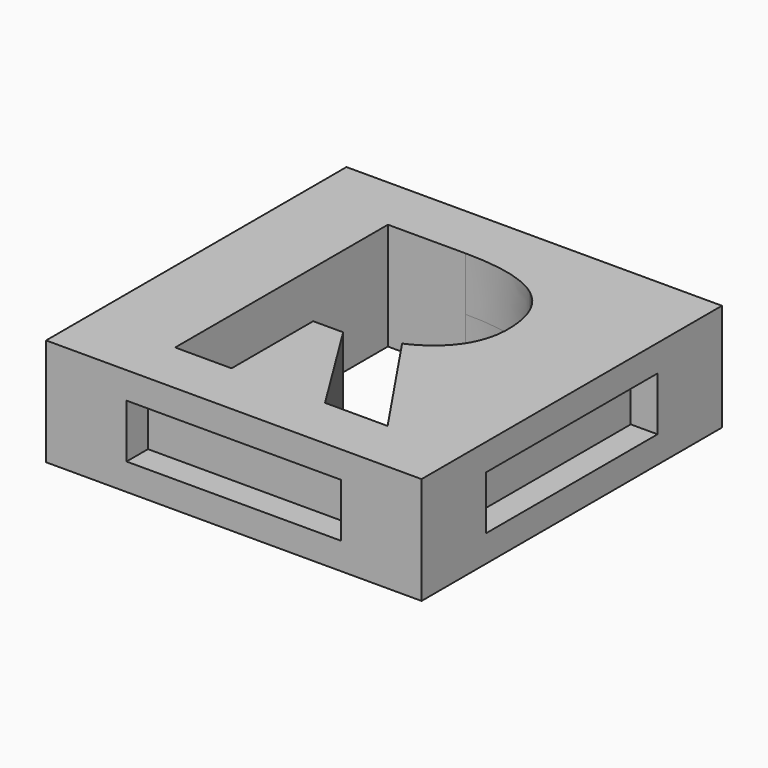
from build123d import *

# Parameters (mm, degrees)
F0_W     = 35.56
F0_H     = 35.56
F1_DEPTH = 5.08
F2_W     = 19.812
F2_H     = 4.572
F3_DEPTH = 2.54
F4_W     = 19.812
F4_H     = 4.572
F5_DEPTH = 2.54
F6_W     = 20.32
F6_H     = 5.08
F7_DEPTH = 2.54
F8_W     = 20.32
F8_H     = 5.08
F9_DEPTH = 2.54


with BuildPart() as f1:
    # F0 (on Top) → F1 (new body, symmetric)
    with BuildSketch(Plane.XY):
        Rectangle(F0_W, F0_H)
        with BuildLine():
            Line((-1.438671875, -3.0371961806), (-4.2774305556, -3.0371961806))
            Line((-4.2774305556, -3.0371961806), (-4.2774305556, -12.7))
            Line((-4.2774305556, -12.7), (-9.6187065972, -12.7))
            Line((-9.6187065972, -12.7), (-9.6187065972, 12.4850260417))
            Line((-9.6187065972, 12.4850260417), (-2.28203125, 12.4850260417))
            add(Edge.make_bspline(
                [(-2.28203125, 12.4850260417), (2.8552951389, 12.4850260417), (5.3164713542, 10.61640625)],
                knots=[0, 0, 0, 1, 1, 1], degree=2))
            add(Edge.make_bspline(
                [(5.3164713542, 10.61640625), (7.7776475694, 8.7477864583), (7.7776475694, 4.9388888889)],
                knots=[0, 0, 0, 1, 1, 1], degree=2))
            add(Edge.make_bspline(
                [(7.7776475694, 4.9388888889), (7.7776475694, 2.7174913194), (6.5567057292, 0.9866753472)],
                knots=[0, 0, 0, 1, 1, 1], degree=2))
            add(Edge.make_bspline(
                [(6.5567057292, 0.9866753472), (5.3357638889, -0.744140625), (3.0923177083, -1.7253038194)],
                knots=[0, 0, 0, 1, 1, 1], degree=2))
            add(Edge.make_bspline(
                [(3.0923177083, -1.7253038194), (8.780859375, -10.21953125), (10.5006510417, -12.7)],
                knots=[0, 0, 0, 1, 1, 1], degree=2))
            Line((10.5006510417, -12.7), (4.5750868056, -12.7))
            Line((4.5750868056, -12.7), (-1.438671875, -3.0371961806))
        make_face(mode=Mode.SUBTRACT)
    extrude(amount=F1_DEPTH, both=True)

    # F2 (on face) → F3 (join)
    with BuildSketch(Plane(origin=(0, 17.78, 0), x_dir=(-1, 0, 0), z_dir=(0, 1, 0))):
        Rectangle(F2_W, F2_H)
    extrude(amount=F3_DEPTH)

    # F4 (on face) → F5 (join)
    with BuildSketch(Plane(origin=(-17.78, 0, 0), x_dir=(0, -1, 0), z_dir=(-1, 0, 0))):
        Rectangle(F4_W, F4_H)
    extrude(amount=F5_DEPTH)

    # F6 (on face) → F7 (cut)
    with BuildSketch(Plane.XZ.offset(17.78)):
        Rectangle(F6_W, F6_H)
    extrude(amount=-F7_DEPTH, mode=Mode.SUBTRACT)

    # F8 (on face) → F9 (cut)
    with BuildSketch(Plane.YZ.offset(17.78)):
        Rectangle(F8_W, F8_H)
    extrude(amount=-F9_DEPTH, mode=Mode.SUBTRACT)


solid = f1.part
